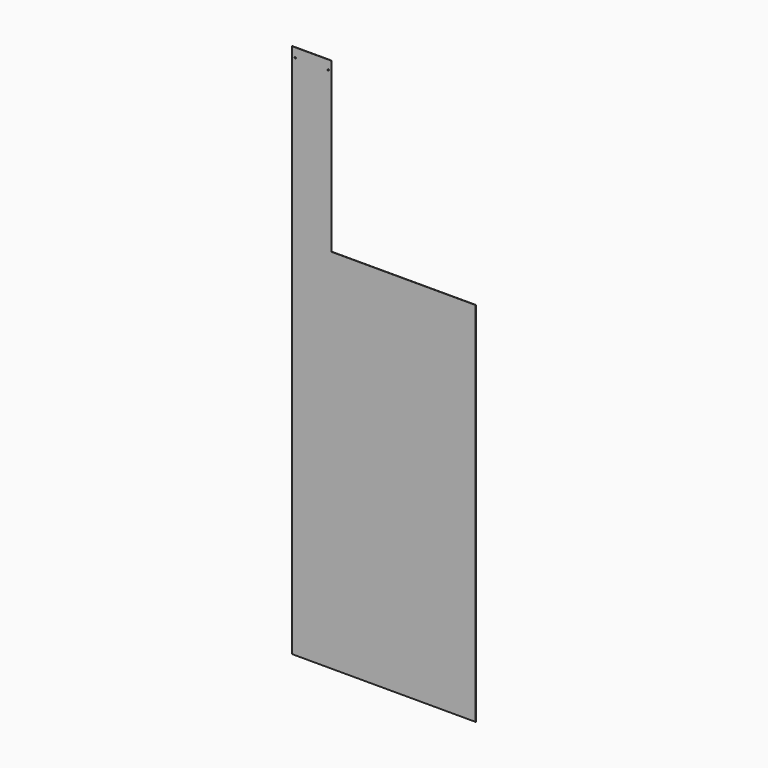
from build123d import *

# Parameters (mm, degrees)
F1_DEPTH = 0.5
F2_R     = 1.1
F3_DEPTH = 0.501


with BuildPart() as f1:
    # F0 (on Front) → F1 (new body)
    with BuildSketch(Plane.XZ):
        Polygon((39.504941, 126.711226), (-196.495059, 126.711226), (-196.495059, 401.711226), (-260.495059, 401.711226), (-260.495059, 126.711226), (-260.495059, -473.288774), (39.504941, -473.288774), align=None)
    extrude(amount=F1_DEPTH)

    # F2 (on face) → F3 (cut, through all)
    with BuildSketch(Plane.XZ.offset(0.5)):
        with Locations((-255.495059, 386.711226)):
            Circle(F2_R)
        with Locations((-201.495059, 386.711226)):
            Circle(F2_R)
    extrude(amount=-F3_DEPTH, mode=Mode.SUBTRACT)


solid = f1.part
